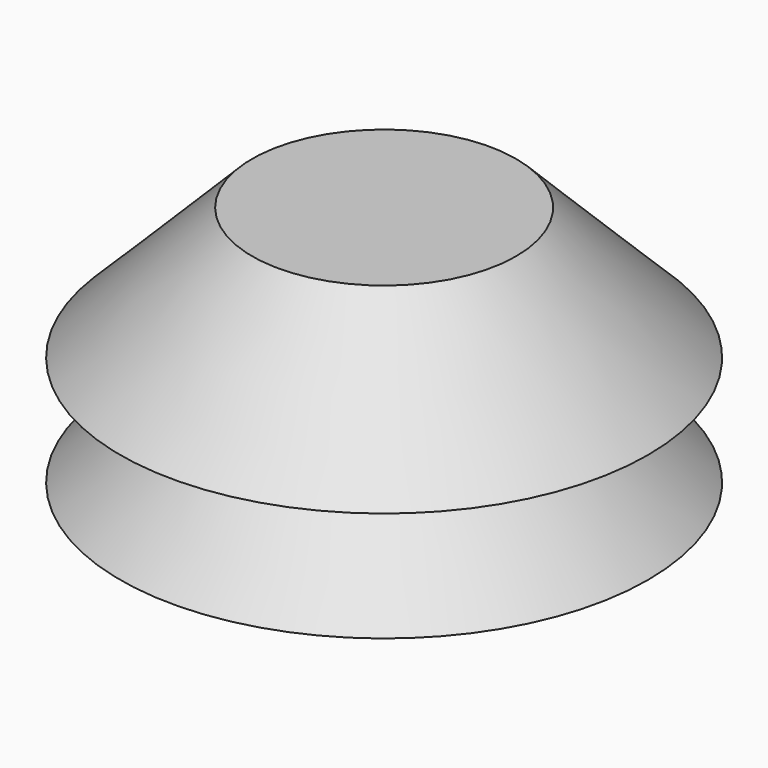
from build123d import *

# Parameters (mm, degrees)
F0_R     = 30
F1_DEPTH = 30
F1_TAPER = -45
F3_R     = 30
F4_DEPTH = 30
F4_TAPER = -45


with BuildPart() as f1:
    # F0 (on Top) → F1 (new body)
    with BuildSketch(Plane.XY):
        Circle(F0_R)
    extrude(amount=-F1_DEPTH, taper=F1_TAPER)


with BuildPart() as f4:
    # F3 (on offset) → F4 (new body)
    with BuildSketch(Plane.XY.offset(25)):
        Circle(F3_R)
    extrude(amount=-F4_DEPTH, taper=F4_TAPER)


solid = Compound([f1.part, f4.part])
